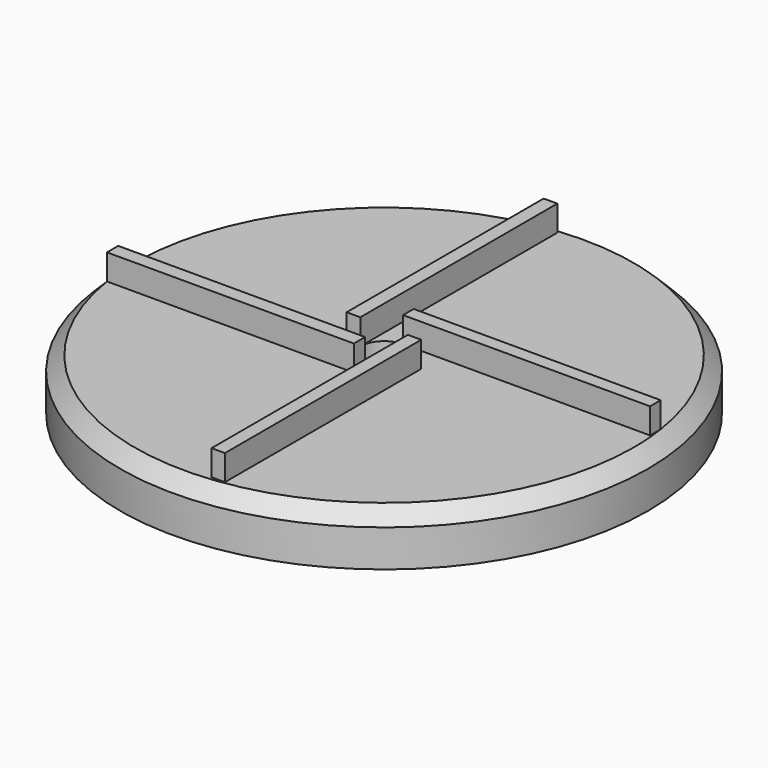
from build123d import *

# Parameters (mm, degrees)
F0_R     = 47.0892297355
F0_R_2   = 45.1105774951
F0_R_3   = 10.9409208949
F0_R_4   = 4.2395211019
F1_DEPTH = 3.81
F2_SIZE  = 2.54
F3_R     = 47.0892297355
F3_R_2   = 45.1105774951
F4_DEPTH = 5.334
F6_DEPTH = 2.54
F5_W     = 2.4396785341
F5_H     = 43.9290553331
F5_W_2   = 44.0566511325
F5_H_2   = 2.3669424772
F5_W_3   = 2.3844161808
F5_H_3   = 43.7675852008
F5_W_4   = 44.0356882348
F5_H_4   = 2.5052570053
F7_DEPTH = 4.572


with BuildPart() as f1:
    # F0 (on Top) → F1 (new body)
    with BuildSketch(Plane.XY):
        Circle(F0_R)
        Circle(F0_R_2, mode=Mode.SUBTRACT)
        Circle(F0_R_2)
        Circle(F0_R_3, mode=Mode.SUBTRACT)
        Circle(F0_R_3)
        Circle(F0_R_4, mode=Mode.SUBTRACT)
    extrude(amount=F1_DEPTH)

    # F2
    f2_edges = [f1.edges().sort_by_distance(p)[0] for p in [
        (-47.08923, 0, 3.81),
    ]]
    chamfer(f2_edges, length=F2_SIZE)

    # F3 (on face) → F4 (join)
    with BuildSketch(Plane(origin=(0, 0, 0), x_dir=(1, 0, 0), z_dir=(0, 0, -1))):
        Circle(F3_R)
        Circle(F3_R_2, mode=Mode.SUBTRACT)
    extrude(amount=F4_DEPTH)

    # F6 (add): a face of the model
    f6_faces = [f1.faces().sort_by_distance(p)[0] for p in [
        (-43.8346576851, 0, 0),
    ]]
    extrude(f6_faces, amount=F6_DEPTH)

    # F5 (on face) → F7 (join)
    with BuildSketch(Plane.XY.offset(3.81)):
        with Locations((-5.4593603689, 21.9645276666)):
            Rectangle(F5_W, F5_H)
        with Locations((22.0283255662, 5.4229923405)):
            Rectangle(F5_W_2, F5_H_2)
        with Locations((5.4317291923, -21.8837926004)):
            Rectangle(F5_W_3, F5_H_3)
        with Locations((-22.0178441174, -5.4921496045)):
            Rectangle(F5_W_4, F5_H_4)
    extrude(amount=F7_DEPTH)


solid = f1.part
